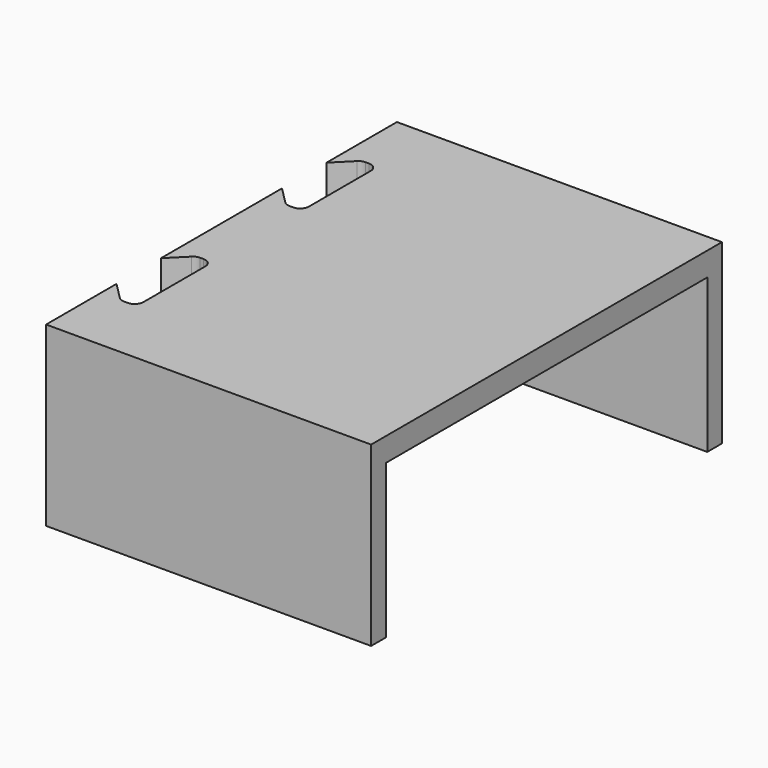
from build123d import *

# Parameters (mm, degrees)
F0_W     = 2.1
F0_H     = 2.1
F1_DEPTH = 30
F4_DEPTH = 34
F5_DEPTH = 27.5
F6_DEPTH = 7.5


with BuildPart() as f1:
    # F0 (on Top) → F1 (new body)
    with BuildSketch(Plane.XY):
        with BuildLine():
            Line((86, -35), (90, -35))
            Line((90, -35), (90, -23))
            Line((90, -23), (90, 23))
            Line((90, 23), (90, 35))
            Line((90, 35), (86, 35))
            Line((86, 35), (80, 35))
            Line((80, 35), (70.1, 35))
            Line((70.1, 35), (70.1, 22.207107))
            Line((70.1, 22.207107), (72.989087, 25.096194))
            ThreePointArc((72.989087, 25.096194), (73.475722, 25.421353), (74.049747, 25.535534))
            Line((74.049747, 25.535534), (74.635534, 25.535534))
            ThreePointArc((74.635534, 25.535534), (75.696194, 25.096194), (76.135534, 24.035534))
            Line((76.135534, 24.035534), (76.135534, 10.964466))
            ThreePointArc((76.135534, 10.964466), (75.696194, 9.903806), (74.635534, 9.464466))
            Line((74.635534, 9.464466), (74.049747, 9.464466))
            ThreePointArc((74.049747, 9.464466), (73.475722, 9.578647), (72.989087, 9.903806))
            Line((72.989087, 9.903806), (70.1, 12.792893))
            Line((70.1, 12.792893), (70.1, -12.792893))
            Line((70.1, -12.792893), (72.989087, -9.903806))
            ThreePointArc((72.989087, -9.903806), (73.475722, -9.578647), (74.049747, -9.464466))
            Line((74.049747, -9.464466), (74.635534, -9.464466))
            ThreePointArc((74.635534, -9.464466), (75.696194, -9.903806), (76.135534, -10.964466))
            Line((76.135534, -10.964466), (76.135534, -24.035534))
            ThreePointArc((76.135534, -24.035534), (75.696194, -25.096194), (74.635534, -25.535534))
            Line((74.635534, -25.535534), (74.049747, -25.535534))
            ThreePointArc((74.049747, -25.535534), (73.475722, -25.421353), (72.989087, -25.096194))
            Line((72.989087, -25.096194), (70.1, -22.207107))
            Line((70.1, -22.207107), (70.1, -35))
            Line((70.1, -35), (80, -35))
            Line((80, -35), (86, -35))
        make_face()
        Polygon((86, 35), (90, 35), (90, 37.1), (70.1, 37.1), (70.1, 35), (80, 35), align=None)
        Polygon((90, -23), (90, -35), (92.1, -35), (92.1, 35), (90, 35), (90, 23), align=None)
        with Locations((91.05, 36.05)):
            Rectangle(F0_W, F0_H)
        Polygon((92.1, 35), (92.1, -35), (92.1, -37.1), (125.1, -37.1), (125.1, 37.1), (92.1, 37.1), align=None)
        Polygon((90, -37.1), (90, -35), (86, -35), (80, -35), (70.1, -35), (70.1, -37.1), align=None)
        with Locations((91.05, -36.05)):
            Rectangle(F0_W, F0_H)
    extrude(amount=F1_DEPTH)

    # F3 (on Front) → F4 (cut, symmetric)
    with BuildSketch(Plane.XZ):
        Polygon((105, 26), (79, 0), (125.1, 0), (125.1, 26), align=None)
    extrude(amount=F4_DEPTH, both=True, mode=Mode.SUBTRACT)

    # F3 (on Front) → F5 (cut, symmetric)
    with BuildSketch(Plane.XZ):
        Polygon((105, 26), (79, 0), (125.1, 0), (125.1, 26), align=None)
        Polygon((85, 26), (79, 0), (105, 26), align=None)
    extrude(amount=F5_DEPTH, both=True, mode=Mode.SUBTRACT)

    # F3 (on Front) → F6 (join, symmetric)
    with BuildSketch(Plane.XZ):
        Polygon((85, 26), (79, 0), (105, 26), align=None)
    extrude(amount=F6_DEPTH, both=True)


solid = f1.part
